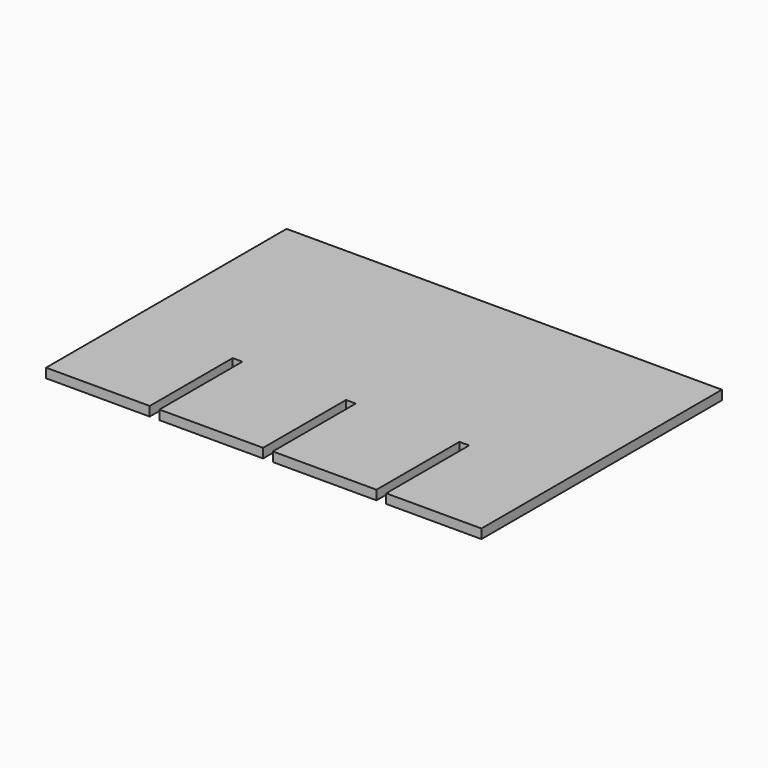
from build123d import *

# Parameters (mm, degrees)
F1_DEPTH = 11.5062


with BuildPart() as f1:
    # F0 (on Top) → F1 (new body)
    with BuildSketch(Plane.XY):
        Polygon((0, 368.3), (0, 0), (127, 0), (127, 127), (138.90625, 127), (138.90625, 0), (265.90625, 0), (265.90625, 127), (277.8125, 127), (277.8125, 0), (404.8125, 0), (404.8125, 127), (416.71875, 127), (416.71875, 0), (533.4, 0), (533.4, 368.3), align=None)
    extrude(amount=F1_DEPTH)


solid = f1.part
